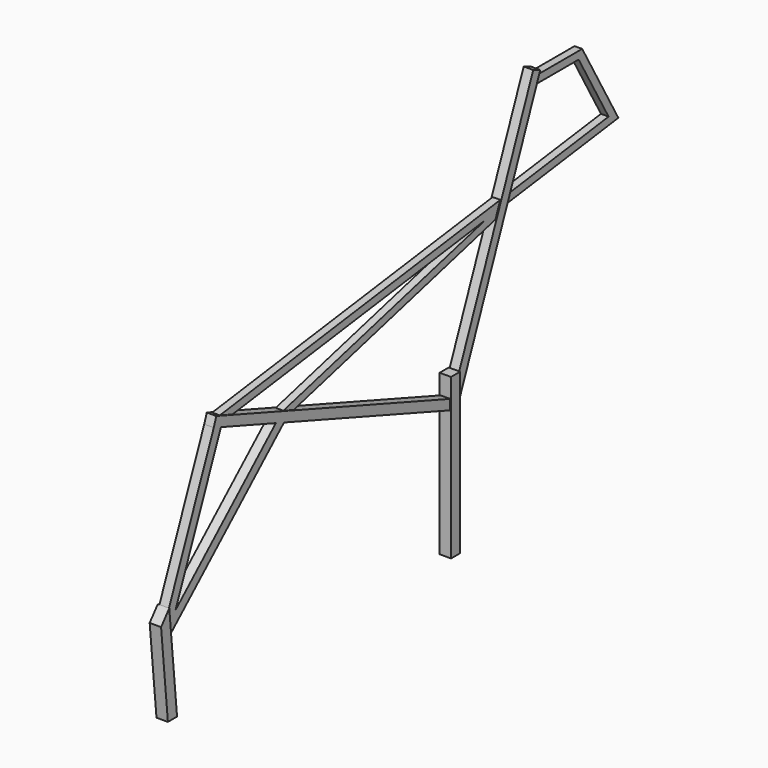
from build123d import *

# Parameters (mm, degrees)
F2_DEPTH = 6
F3_DEPTH = 5
F4_DEPTH = 4


with BuildPart() as f2:
    # F1 (on Right) → F2 (new body, symmetric)
    with BuildSketch(Plane.YZ):
        Polygon((6, 168.0537815686), (-6, 168.0537815686), (-6, 147.4344787753), (-6, 136.8235857408), (-6, 0), (6, 0), (6, 141.4846799699), align=None)
    extrude(amount=F2_DEPTH, both=True)



with BuildPart() as f2b:
    # F1 (on Right) → F2, piece 2 (new body, symmetric)
    with BuildSketch(Plane.YZ):
        Polygon((-366.1312568474, 0), (-373.8555777285, 78.8196008275), (-375.0700772329, 91.2124529134), (-376.1697828669, 102.433938974), (-376.3721973614, 104.499393), (-387.1445919312, 91.3862120271), (-378.1887431526, 0), align=None)
    extrude(amount=F2_DEPTH, both=True)


with BuildPart() as f2_1:
    add(f2.part)

    add(f2b.part)  # F3 merges F2b
    # F1 (on Right) → F3 (join, symmetric)
    with BuildSketch(Plane.YZ):
        Polygon((54.9115302543, 288.4513945022), (6, 168.0537815686), (6, 141.4846799699), (69.1811610546, 297.0075379505), (72.6501883928, 305.5466821674), (107.7718487622, 392), (111.0218487622, 400), (112.5273569501, 403.7058663085), (103.2626911788, 407.469636778), (61.2320620859, 304.0096267031), (57.7630347477, 295.4704824861), align=None)
        Polygon((-6, 136.8235857408), (-6, 147.4344787753), (-210.4892851655, 219.9951928663), (-223.9719705091, 224.7793715366), (-290.9143972643, 248.5331358691), (-307.4065665233, 254.3851959287), (-313.2799449629, 256.4692979557), (-316.6240434146, 247.0450205009), (-307.1881482882, 243.6967996495), (-235.0141298479, 218.086664074), (-224.3114881972, 214.2889525205), align=None)
        Polygon((-373.8555777285, 78.8196008275), (-224.3114881972, 214.2889525205), (-235.0141298479, 218.086664074), (-366.9451312979, 98.5726980545), (-375.0700772329, 91.2124529134), align=None)
        Polygon((-366.9451312979, 98.5726980545), (-307.1881482882, 243.6967996495), (-316.6240434146, 247.0450205009), (-376.1697828669, 102.433938974), (-375.0700772329, 91.2124529134), align=None)
    extrude(amount=F3_DEPTH, both=True)

    # F1 (on Right) → F4 (join, symmetric)
    with BuildSketch(Plane.YZ):
        Polygon((41.7213857169, 293.3110297319), (57.7630347477, 295.4704824861), (61.2320620859, 304.0096267031), (-307.4065665233, 254.3851959287), (-290.9143972643, 248.5331358691), align=None)
        Polygon((-210.4892851655, 219.9951928663), (54.9115302543, 288.4513945022), (57.7630347477, 295.4704824861), (41.7213857169, 293.3110297319), (-223.9719705091, 224.7793715366), align=None)
        Polygon((72.6501883928, 305.5466821674), (69.1811610546, 297.0075379505), (216.4195260905, 316.8280870899), (203.5804739095, 323.1719129101), align=None)
        Polygon((203.5804739095, 323.1719129101), (216.4195260905, 316.8280870899), (168.8927187133, 400), (164.2501384295, 392), align=None)
        Polygon((164.2501384295, 392), (168.8927187133, 400), (111.0218487622, 400), (107.7718487622, 392), align=None)
    extrude(amount=F4_DEPTH, both=True)


solid = f2_1.part
